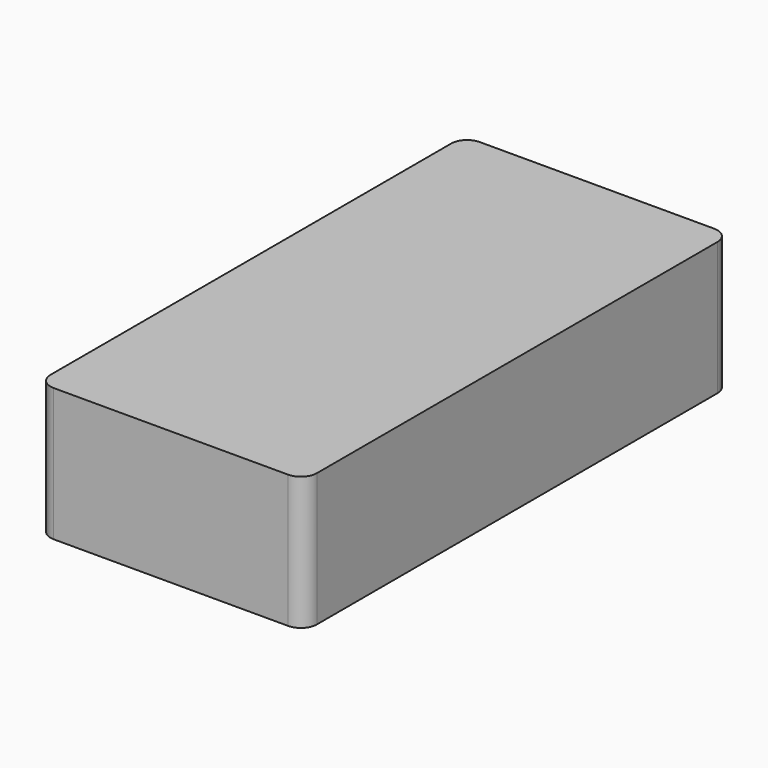
from build123d import *

# Parameters (mm, degrees)
SKETCH_W  = 25
SKETCH_H  = 50
PAD_DEPTH = 12.5
FILLET_R  = 1.5


with BuildPart() as part:
    # Sketch → Pad (new body)
    with BuildSketch(Plane.XY):
        with Locations((12.5, 25)):
            Rectangle(SKETCH_W, SKETCH_H)
    extrude(amount=PAD_DEPTH)

    # Fillet
    fillet_edges = [part.edges().sort_by_distance(p)[0] for p in [
        (0, 0, 6.25),
        (25, 0, 6.25),
        (25, 50, 6.25),
        (0, 50, 6.25),
    ]]
    fillet(fillet_edges, radius=FILLET_R)


solid = part.part
